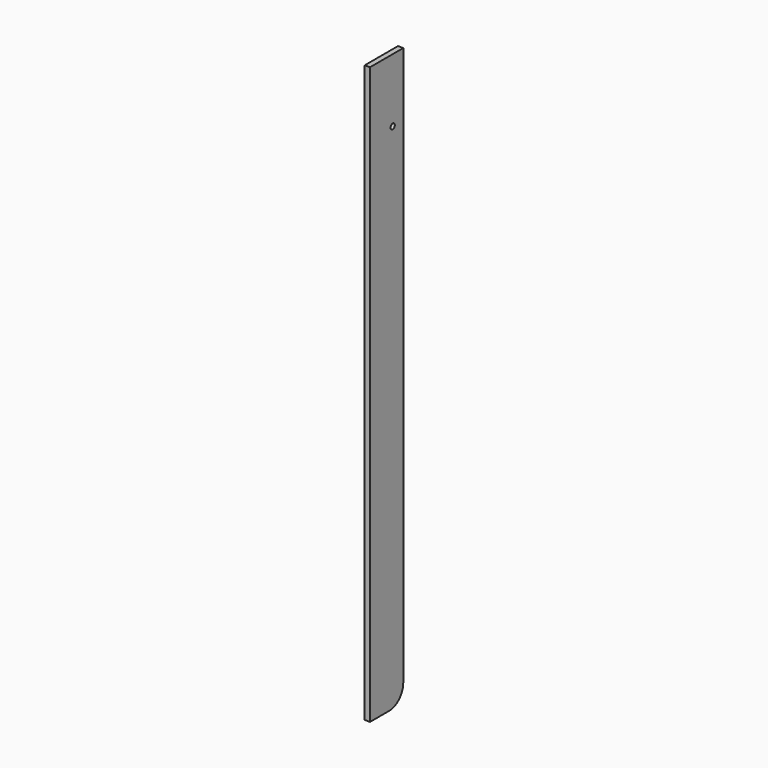
from build123d import *

# Parameters (mm, degrees)
F0_W     = 19.05
F0_H     = 149.225
F1_DEPTH = 1035.05
F2_R     = 63.5
F4_D     = 19.05


with BuildPart() as f1:
    # F0 (on Top) → F1 (new body, symmetric)
    with BuildSketch(Plane.XY):
        Rectangle(F0_W, F0_H)
    extrude(amount=F1_DEPTH, both=True)

    # F2
    f2_edges = [f1.edges().sort_by_distance(p)[0] for p in [
        (0, 74.6125, -1035.05),
    ]]
    fillet(f2_edges, radius=F2_R)

    # F4 (through all)
    with Locations(Plane.YZ.offset(9.525)):
        with Locations((26.9875, 806.45)):
            Hole(F4_D / 2)


solid = f1.part
